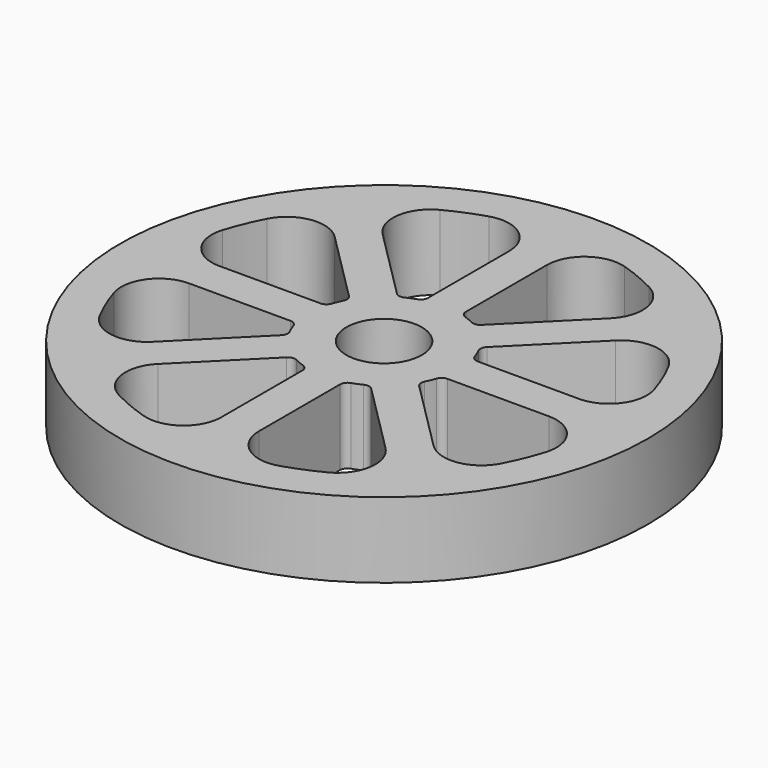
from build123d import *

# Parameters (mm, degrees)
F0_R     = 44.45
F0_R_2   = 6.35
F1_DEPTH = 12.7


with BuildPart() as f1:
    # F0 (on Top) → F1 (new body)
    with BuildSketch(Plane.XY):
        Circle(F0_R)
        with BuildLine():
            ThreePointArc((-4.040909, -12.039977), (-3.413958, -12.502455), (-3.175, -13.243975))
            Line((-3.175, -13.243975), (-3.175, -30.28757))
            ThreePointArc((-3.175, -30.28757), (-5.768289, -35.407103), (-11.43, -36.345084))
            ThreePointArc((-11.43, -36.345084), (-14.580239, -35.19981), (-17.617625, -33.782086))
            ThreePointArc((-17.617625, -33.782086), (-20.957806, -29.115399), (-19.171482, -23.66161))
            Line((-19.171482, -23.66161), (-7.119841, -11.609969))
            ThreePointArc((-7.119841, -11.609969), (-6.426538, -11.254603), (-5.656195, -11.370904))
            ThreePointArc((-5.656195, -11.370904), (-4.86008, -11.73327), (-4.040909, -12.039977))
        make_face(mode=Mode.SUBTRACT)
        with BuildLine():
            Line((-30.28757, -3.175), (-13.243975, -3.175))
            ThreePointArc((-13.243975, -3.175), (-12.502455, -3.413958), (-12.039977, -4.040909))
            ThreePointArc((-12.039977, -4.040909), (-11.73327, -4.86008), (-11.370904, -5.656195))
            ThreePointArc((-11.370904, -5.656195), (-11.254603, -6.426538), (-11.609969, -7.119841))
            Line((-11.609969, -7.119841), (-23.66161, -19.171482))
            ThreePointArc((-23.66161, -19.171482), (-29.115399, -20.957806), (-33.782086, -17.617625))
            ThreePointArc((-33.782086, -17.617625), (-35.19981, -14.580239), (-36.345084, -11.43))
            ThreePointArc((-36.345084, -11.43), (-35.407103, -5.768289), (-30.28757, -3.175))
        make_face(mode=Mode.SUBTRACT)
        with BuildLine():
            Line((3.175, -30.28757), (3.175, -13.243975))
            ThreePointArc((3.175, -13.243975), (3.413958, -12.502455), (4.040909, -12.039977))
            ThreePointArc((4.040909, -12.039977), (4.86008, -11.73327), (5.656195, -11.370904))
            ThreePointArc((5.656195, -11.370904), (6.426538, -11.254603), (7.119841, -11.609969))
            Line((7.119841, -11.609969), (19.171482, -23.66161))
            ThreePointArc((19.171482, -23.66161), (20.957806, -29.115399), (17.617625, -33.782086))
            ThreePointArc((17.617625, -33.782086), (14.580239, -35.19981), (11.43, -36.345084))
            ThreePointArc((11.43, -36.345084), (5.768289, -35.407103), (3.175, -30.28757))
        make_face(mode=Mode.SUBTRACT)
        with BuildLine():
            ThreePointArc((12.039977, -4.040909), (12.502455, -3.413958), (13.243975, -3.175))
            Line((13.243975, -3.175), (30.28757, -3.175))
            ThreePointArc((30.28757, -3.175), (35.407103, -5.768289), (36.345084, -11.43))
            ThreePointArc((36.345084, -11.43), (35.19981, -14.580239), (33.782086, -17.617625))
            ThreePointArc((33.782086, -17.617625), (29.115399, -20.957806), (23.66161, -19.171482))
            Line((23.66161, -19.171482), (11.609969, -7.119841))
            ThreePointArc((11.609969, -7.119841), (11.254603, -6.426538), (11.370904, -5.656195))
            ThreePointArc((11.370904, -5.656195), (11.73327, -4.86008), (12.039977, -4.040909))
        make_face(mode=Mode.SUBTRACT)
        with BuildLine():
            ThreePointArc((-12.039977, 4.040909), (-12.502455, 3.413958), (-13.243975, 3.175))
            Line((-13.243975, 3.175), (-30.28757, 3.175))
            ThreePointArc((-30.28757, 3.175), (-35.407103, 5.768289), (-36.345084, 11.43))
            ThreePointArc((-36.345084, 11.43), (-35.19981, 14.580239), (-33.782086, 17.617625))
            ThreePointArc((-33.782086, 17.617625), (-29.115399, 20.957806), (-23.66161, 19.171482))
            Line((-23.66161, 19.171482), (-11.609969, 7.119841))
            ThreePointArc((-11.609969, 7.119841), (-11.254603, 6.426538), (-11.370904, 5.656195))
            ThreePointArc((-11.370904, 5.656195), (-11.73327, 4.86008), (-12.039977, 4.040909))
        make_face(mode=Mode.SUBTRACT)
        with BuildLine():
            ThreePointArc((-17.617625, 33.782086), (-14.580239, 35.19981), (-11.43, 36.345084))
            ThreePointArc((-11.43, 36.345084), (-5.768289, 35.407103), (-3.175, 30.28757))
            Line((-3.175, 30.28757), (-3.175, 13.243975))
            ThreePointArc((-3.175, 13.243975), (-3.413958, 12.502455), (-4.040909, 12.039977))
            ThreePointArc((-4.040909, 12.039977), (-4.86008, 11.73327), (-5.656195, 11.370904))
            ThreePointArc((-5.656195, 11.370904), (-6.426538, 11.254603), (-7.119841, 11.609969))
            Line((-7.119841, 11.609969), (-19.171482, 23.66161))
            ThreePointArc((-19.171482, 23.66161), (-20.957806, 29.115399), (-17.617625, 33.782086))
        make_face(mode=Mode.SUBTRACT)
        Circle(F0_R_2, mode=Mode.SUBTRACT)
        with BuildLine():
            ThreePointArc((13.243975, 3.175), (12.502455, 3.413958), (12.039977, 4.040909))
            ThreePointArc((12.039977, 4.040909), (11.73327, 4.86008), (11.370904, 5.656195))
            ThreePointArc((11.370904, 5.656195), (11.254603, 6.426538), (11.609969, 7.119841))
            Line((11.609969, 7.119841), (23.66161, 19.171482))
            ThreePointArc((23.66161, 19.171482), (29.115399, 20.957806), (33.782086, 17.617625))
            ThreePointArc((33.782086, 17.617625), (35.19981, 14.580239), (36.345084, 11.43))
            ThreePointArc((36.345084, 11.43), (35.407103, 5.768289), (30.28757, 3.175))
            Line((30.28757, 3.175), (13.243975, 3.175))
        make_face(mode=Mode.SUBTRACT)
        with BuildLine():
            Line((3.175, 13.243975), (3.175, 30.28757))
            ThreePointArc((3.175, 30.28757), (5.768289, 35.407103), (11.43, 36.345084))
            ThreePointArc((11.43, 36.345084), (14.580239, 35.19981), (17.617625, 33.782086))
            ThreePointArc((17.617625, 33.782086), (20.957806, 29.115399), (19.171482, 23.66161))
            Line((19.171482, 23.66161), (7.119841, 11.609969))
            ThreePointArc((7.119841, 11.609969), (6.426538, 11.254603), (5.656195, 11.370904))
            ThreePointArc((5.656195, 11.370904), (4.86008, 11.73327), (4.040909, 12.039977))
            ThreePointArc((4.040909, 12.039977), (3.413958, 12.502455), (3.175, 13.243975))
        make_face(mode=Mode.SUBTRACT)
    extrude(amount=F1_DEPTH)


solid = f1.part
